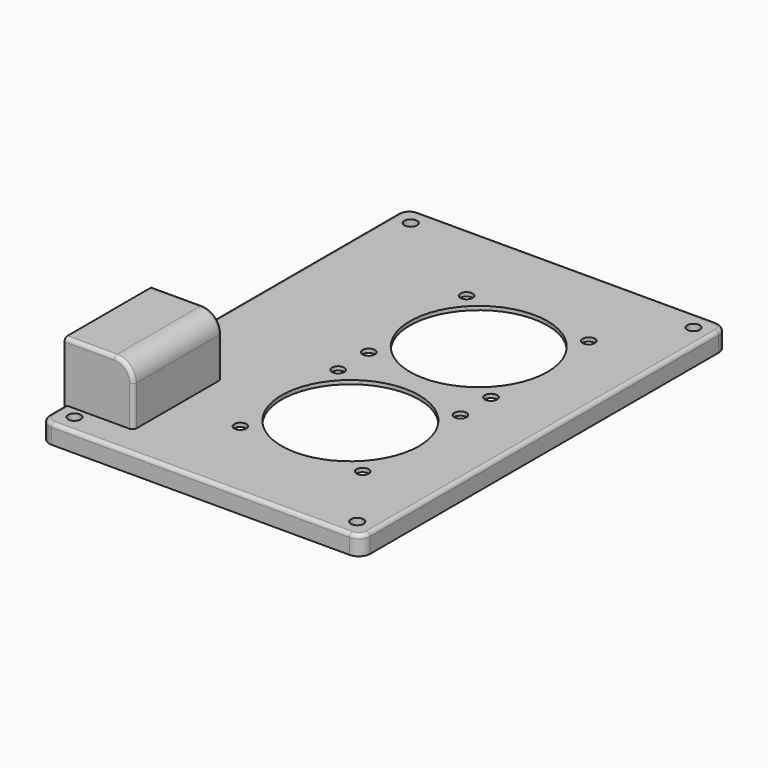
from build123d import *

# Parameters (mm, degrees)
SKETCH009_R       = 1.65
PAD007_DEPTH      = 55
CYLINDER041_R     = 1.6
CYLINDER041_DEPTH = 10
CYLINDER042_R     = 18
CYLINDER042_DEPTH = 10
CYLINDER009_R     = 1.6
CYLINDER009_DEPTH = 10
CYLINDER010_R     = 18
CYLINDER010_DEPTH = 10
BOX016_W          = 18
BOX016_H          = 29
BOX016_DEPTH      = 16
FILLET020_R       = 5
THICKNESS_T       = -2.1
BOX015_W          = 18
BOX015_H          = 25
BOX015_DEPTH      = 18
PAD008_DEPTH      = 101
BOX010_W          = 84
BOX010_H          = 120
BOX010_DEPTH      = 5
FILLET012_R       = 3
FILLET034_R       = 1


with BuildPart() as pad007:
    # Sketch009 → Pad007 (new body)
    with BuildSketch(Plane.XY.offset(100)):
        with Locations((5, 115)):
            Circle(SKETCH009_R)
        with Locations((79, 115)):
            Circle(SKETCH009_R)
        with Locations((79, 5)):
            Circle(SKETCH009_R)
        with Locations((5, 5)):
            Circle(SKETCH009_R)
    extrude(amount=-PAD007_DEPTH)


with BuildPart() as cylinder041:
    # Cylinder041 → Cylinder041 (new body)
    with BuildSketch(Plane(origin=(-16, -16, 0), x_dir=(1, 0, 0), z_dir=(0, 0, 1))):
        Circle(CYLINDER041_R)
    extrude(amount=CYLINDER041_DEPTH)


with BuildPart() as part_mirroring003:
    # Part__Mirroring003: instance of Cylinder041
    add(cylinder041.part.mirror(Plane(origin=(0, 0, 0), x_dir=(1, 0, 0), z_dir=(0, 1, 0))))


with BuildPart() as part_mirroring005:
    # Part__Mirroring005: instance of Part__Mirroring003
    add(part_mirroring003.part.mirror(Plane(origin=(0, 0, 0), x_dir=(0, -1, 0), z_dir=(1, 0, 0))))


with BuildPart() as part_mirroring004:
    # Part__Mirroring004: instance of Cylinder041
    add(cylinder041.part.mirror(Plane(origin=(0, 0, 0), x_dir=(0, -1, 0), z_dir=(1, 0, 0))))


with BuildPart() as fusion040:
    # Cylinder042 → Cylinder042 (new body)
    with BuildSketch(Plane.XY):
        Circle(CYLINDER042_R)
    extrude(amount=CYLINDER042_DEPTH)

    # Fusion040: union Part__Mirroring003, Part__Mirroring005, Cylinder041, Part__Mirroring004
    add(part_mirroring003.part)
    add(part_mirroring005.part)
    add(cylinder041.part)
    add(part_mirroring004.part)


with BuildPart() as fusion040_1:
    # Fusion040 placement: moved
    add(fusion040.part.moved(Location((42, 40, 64))))


with BuildPart() as cylinder009:
    # Cylinder009 → Cylinder009 (new body)
    with BuildSketch(Plane(origin=(-16, -16, 0), x_dir=(1, 0, 0), z_dir=(0, 0, 1))):
        Circle(CYLINDER009_R)
    extrude(amount=CYLINDER009_DEPTH)


with BuildPart() as part_mirroring:
    # Part__Mirroring: instance of Cylinder009
    add(cylinder009.part.mirror(Plane(origin=(0, 0, 0), x_dir=(1, 0, 0), z_dir=(0, 1, 0))))


with BuildPart() as part_mirroring002:
    # Part__Mirroring002: instance of Part__Mirroring
    add(part_mirroring.part.mirror(Plane(origin=(0, 0, 0), x_dir=(0, -1, 0), z_dir=(1, 0, 0))))


with BuildPart() as part_mirroring001:
    # Part__Mirroring001: instance of Cylinder009
    add(cylinder009.part.mirror(Plane(origin=(0, 0, 0), x_dir=(0, -1, 0), z_dir=(1, 0, 0))))


with BuildPart() as fusion041:
    # Cylinder010 → Cylinder010 (new body)
    with BuildSketch(Plane.XY):
        Circle(CYLINDER010_R)
    extrude(amount=CYLINDER010_DEPTH)

    # Fusion009: union Part__Mirroring, Part__Mirroring002, Cylinder009, Part__Mirroring001
    add(part_mirroring.part)
    add(part_mirroring002.part)
    add(cylinder009.part)
    add(part_mirroring001.part)


with BuildPart() as fusion041_1:
    # Fusion009 placement: moved
    add(fusion041.part.moved(Location((42, 82, 64))))

    # Fusion041: union Fusion040
    add(fusion040_1.part)


with BuildPart() as fusion041_2:
    # Fusion041 placement: moved
    add(fusion041_1.part.moved(Location((8, -1, 0))))


with BuildPart() as thickness:
    # Box016 → Box016 (new body)
    with BuildSketch(Plane(origin=(0, 8, 68.5), x_dir=(1, 0, 0), z_dir=(0, 0, 1))):
        with Locations((9, 14.5)):
            Rectangle(BOX016_W, BOX016_H)
    extrude(amount=BOX016_DEPTH)

    # Fillet020
    fillet020_edges = [thickness.edges().sort_by_distance(p)[0] for p in [
        (18, 22.5, 84.5),
    ]]
    fillet(fillet020_edges, radius=FILLET020_R)

    # Thickness
    thickness_openings = [thickness.faces().sort_by_distance(p)[0] for p in [
        (0, 22.5, 76.5),
        (9, 22.5, 68.5),
    ]]
    offset(amount=THICKNESS_T, openings=thickness_openings)


with BuildPart() as cube015:
    # Box015 → Box015 (new body)
    with BuildSketch(Plane(origin=(-2, 10, 63), x_dir=(1, 0, 0), z_dir=(0, 0, 1))):
        with Locations((9, 12.5)):
            Rectangle(BOX015_W, BOX015_H)
    extrude(amount=BOX015_DEPTH)


with BuildPart() as pad008:
    # Sketch010 → Pad008 (new body)
    with BuildSketch(Plane.XY.offset(68)):
        with BuildLine():
            Line((82, 111), (82, 9))
            ThreePointArc((82, 9), (77.050253, 6.949747), (75, 2))
            Line((75, 2), (9, 2))
            ThreePointArc((9, 2), (6.949747, 6.949747), (2, 9))
            Line((2, 9), (2, 111))
            ThreePointArc((2, 111), (6.949747, 113.050253), (9, 118))
            Line((9, 118), (75, 118))
            ThreePointArc((75, 118), (77.050253, 113.050253), (82, 111))
        make_face()
    extrude(amount=-PAD008_DEPTH)


with BuildPart() as fillet034:
    # Box010 → Box010 (new body)
    with BuildSketch(Plane.XY.offset(64)):
        with Locations((42, 60)):
            Rectangle(BOX010_W, BOX010_H)
    extrude(amount=BOX010_DEPTH)

    # Fillet012
    fillet012_edges = [fillet034.edges().sort_by_distance(p)[0] for p in [
        (0, 0, 66.5),
        (0, 120, 66.5),
        (84, 0, 66.5),
        (84, 120, 66.5),
    ]]
    fillet(fillet012_edges, radius=FILLET012_R)

    # Cut014: cut Pad008
    add(pad008.part, mode=Mode.SUBTRACT)

    # Cut043: cut Cube015
    add(cube015.part, mode=Mode.SUBTRACT)

    # Fusion042: union Thickness
    add(thickness.part)

    # Cut044: cut Fusion041
    add(fusion041_2.part, mode=Mode.SUBTRACT)

    # Cut045: cut Pad007
    add(pad007.part, mode=Mode.SUBTRACT)

    # Fillet034
    fillet034_edges = [fillet034.edges().sort_by_distance(p)[0] for p in [
        (0, 34.9, 75.45),
        (0, 22.5, 82.4),
        (0, 10.1, 75.45),
        (15.05061, 10.1, 81.55061),
        (6.5, 34.9, 82.4),
        (0.87868, 119.12132, 69),
        (6.5, 8, 84.5),
        (6.5, 37, 84.5),
    ]]
    fillet(fillet034_edges, radius=FILLET034_R)


solid = fillet034.part
